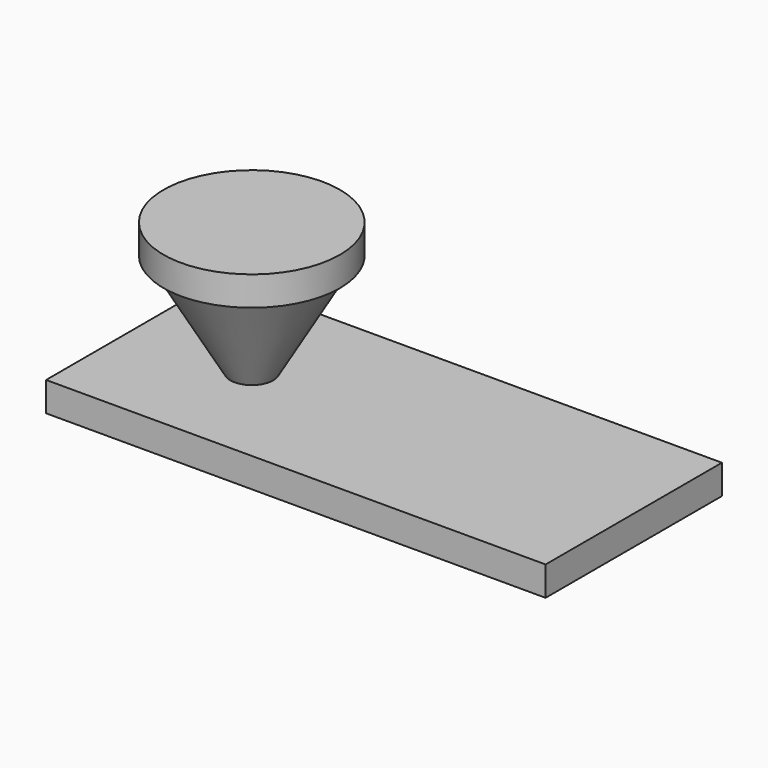
from build123d import *

# Parameters (mm, degrees)
F2_DEPTH = 7.5


with BuildPart() as f1:
    # F0 (on Front) → F1 (revolve)
    with BuildSketch(Plane.XZ):
        Polygon((6, 0), (0, 0), (0, -2), (5.5, -2), (6, -2), align=None)
        Polygon((5.5, -2), (0, -2), (0, -9), (1.458548, -9), align=None)
    revolve(axis=Axis((0, 0, -5.5), (0, 0, 1)))

    # F0 (on Front) → F2 (join, symmetric)
    with BuildSketch(Plane.XZ):
        Polygon((1.458548, -9), (0, -9), (-8, -9), (-8, -11), (26, -11), (26, -9), align=None)
    extrude(amount=F2_DEPTH, both=True)


solid = f1.part
